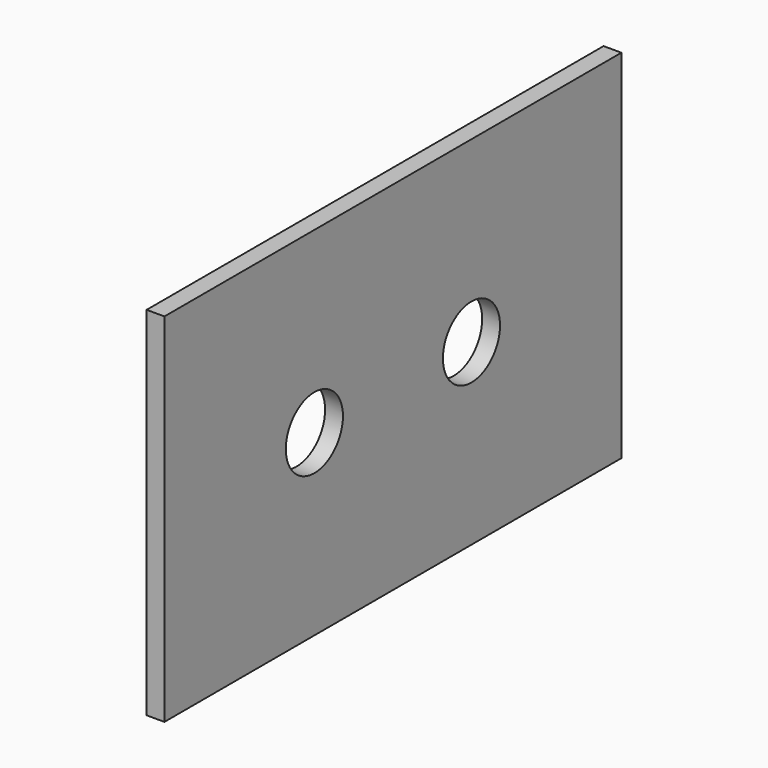
from build123d import *

# Parameters (mm, degrees)
F0_W     = 203.2
F0_H     = 127
F0_R     = 12.7
F1_DEPTH = 6.35


with BuildPart() as f1:
    # F0 (on Right) → F1 (new body)
    with BuildSketch(Plane.YZ):
        Rectangle(F0_W, F0_H)
        with Locations((-34.925, 0)):
            Circle(F0_R, mode=Mode.SUBTRACT)
        with Locations((34.925, 0)):
            Circle(F0_R, mode=Mode.SUBTRACT)
    extrude(amount=F1_DEPTH)


solid = f1.part
